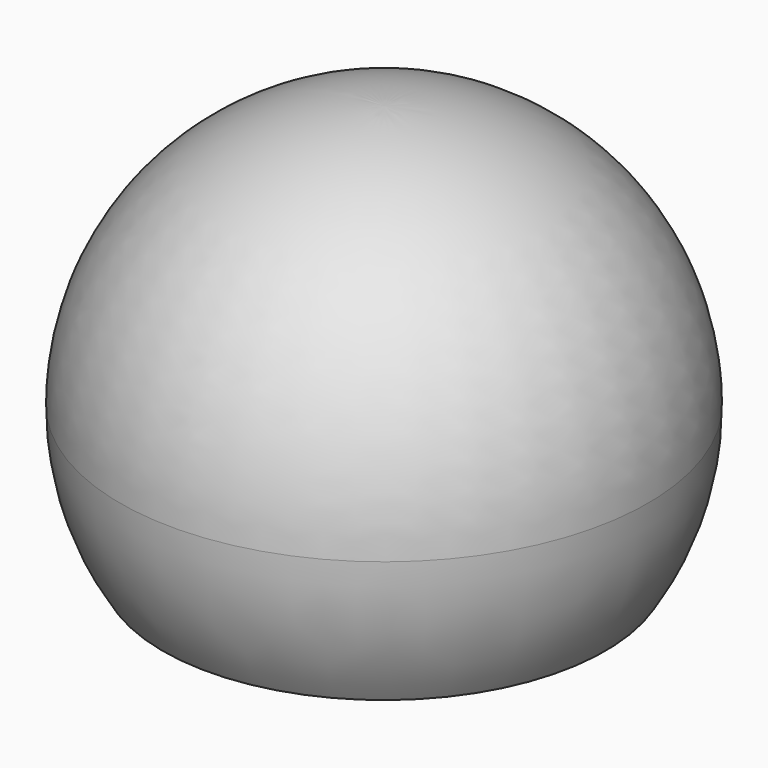
from build123d import *


with BuildPart() as f1:
    # F0 (on Front) → F1 (revolve)
    with BuildSketch(Plane.XZ):
        with BuildLine():
            Line((0, 31), (0, 33))
            ThreePointArc((0, 33), (-23.334524, 23.334524), (-33, 0))
            Line((-33, 0), (-31, 0))
            ThreePointArc((-31, 0), (-21.92031, 21.92031), (0, 31))
        make_face()
    revolve(axis=Axis((0, 0, 25.157485), (0, 0, 1)))


with BuildPart() as f3:
    # F2 (on Front) → F3 (revolve)
    with BuildSketch(Plane.XZ):
        with BuildLine():
            Line((-31, 0), (-33, 0))
            ThreePointArc((-33, 0), (-31.636489, -9.387894), (-27.658633, -18))
            Line((-27.658633, -18), (-25.238859, -18))
            ThreePointArc((-25.238859, -18), (-29.524605, -9.449745), (-31, 0))
        make_face()
    revolve(axis=Axis((0, 0, 25.157485), (0, 0, 1)))


solid = Compound([f1.part, f3.part])
